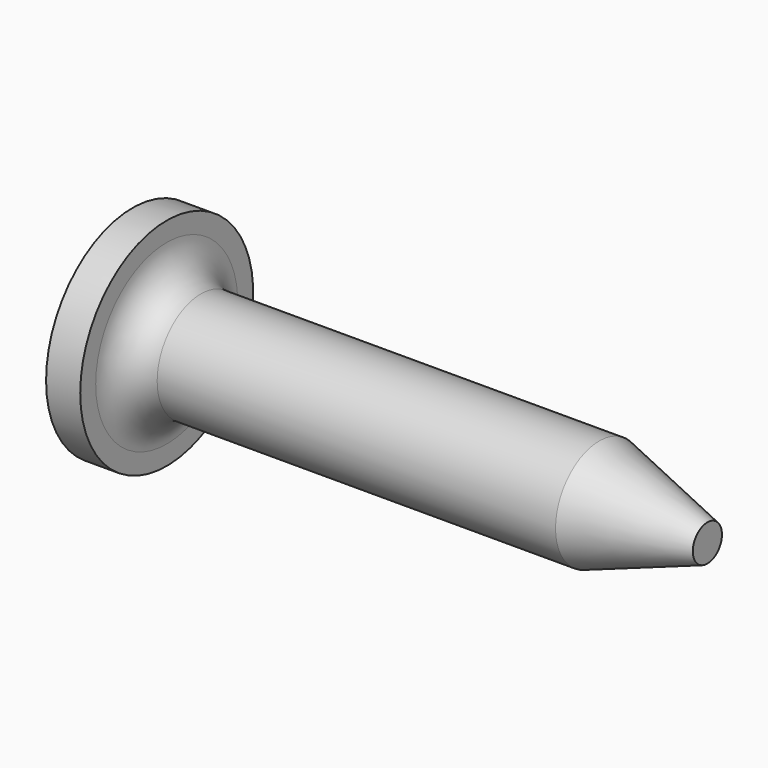
from build123d import *

# Parameters (mm, degrees)
FILLET_R = 1.5


with BuildPart() as part:
    # Sketch → Revolution (revolve)
    with BuildSketch(Plane.XY):
        Polygon((0, 0), (1.5, 0), (20.5, 0), (25.25, 0), (25.25, -0.8), (20.5, -2.4), (1.5, -2.4), (1.5, -4.75), (0, -4.75), align=None)
    revolve(axis=Axis((0, 0, 0), (1, 0, 0)))

    # Fillet
    fillet_edges = [part.edges().sort_by_distance(p)[0] for p in [
        (1.5, 2.4, 0),
    ]]
    fillet(fillet_edges, radius=FILLET_R)


solid = part.part
